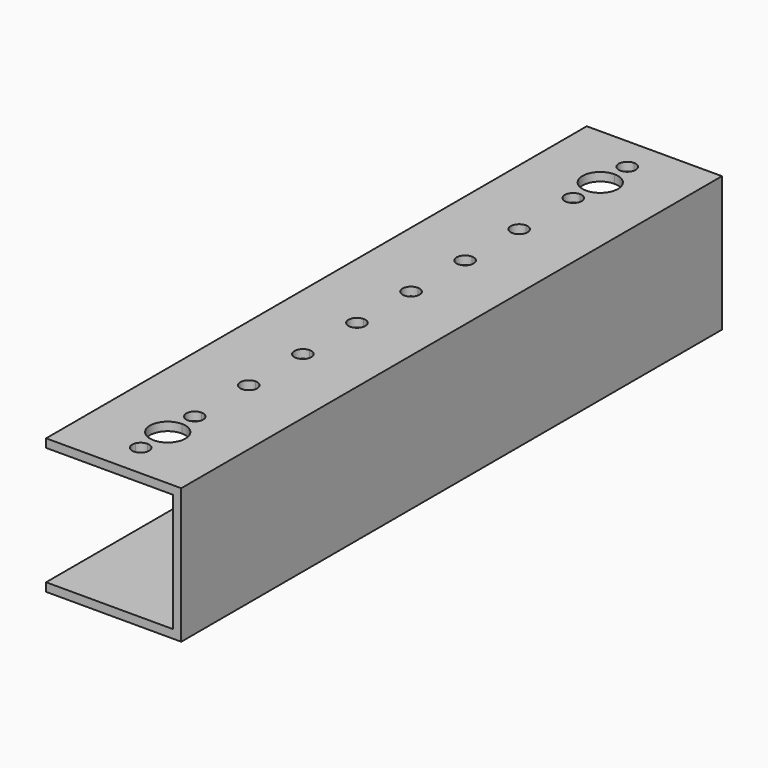
from build123d import *

# Parameters (mm, degrees)
F0_W     = 32
F0_H     = 32
F1_DEPTH = 160
F2_T     = -2
F4_DEPTH = 2


with BuildPart() as f1:
    # F0 (on Front) → F1 (new body)
    with BuildSketch(Plane.XZ):
        with Locations((16, 16)):
            Rectangle(F0_W, F0_H)
    extrude(amount=-F1_DEPTH)

    # F2
    f2_openings = [f1.faces().sort_by_distance(p)[0] for p in [
        (16, 0, 16),
        (0, 80, 16),
        (16, 160, 16),
    ]]
    offset(amount=F2_T, openings=f2_openings)

    # F3 (on face) → F4 (cut, through all)
    with BuildSketch(Plane.XY.offset(32)):
        with BuildLine():
            Line((16, 25.999), (16, 23.999))
            Line((16, 23.999), (17.847759065, 23.2336331353))
            ThreePointArc((17.847759065, 23.2336331353), (17.9615705608, 23.608819356), (18, 23.999))
            ThreePointArc((18, 23.999), (17.4142135624, 25.4132135624), (16, 25.999))
        make_face()
        with BuildLine():
            ThreePointArc((16, 25.999), (14.3370607754, 25.110140466), (14.152240935, 23.2336331353))
            Line((14.152240935, 23.2336331353), (16, 23.999))
            Line((16, 23.999), (16, 25.999))
        make_face()
        with BuildLine():
            ThreePointArc((14.152240935, 23.2336331353), (14.888859534, 22.3360607754), (16, 21.999))
            Line((16, 21.999), (16, 23.999))
            Line((16, 23.999), (14.152240935, 23.2336331353))
        make_face()
        with BuildLine():
            Line((16, 23.999), (16, 21.999))
            ThreePointArc((16, 21.999), (17.111140466, 22.3360607754), (17.847759065, 23.2336331353))
            Line((17.847759065, 23.2336331353), (16, 23.999))
        make_face()
        with BuildLine():
            Line((14.152240935, 8.7643668647), (16, 7.999))
            Line((16, 7.999), (16, 9.999))
            ThreePointArc((16, 9.999), (14.888859534, 9.6619392246), (14.152240935, 8.7643668647))
        make_face()
        with BuildLine():
            Line((16, 9.999), (16, 7.999))
            Line((16, 7.999), (17.847759065, 8.7643668647))
            ThreePointArc((17.847759065, 8.7643668647), (17.111140466, 9.6619392246), (16, 9.999))
        make_face()
        with BuildLine():
            Line((16, 7.999), (16, 5.999))
            ThreePointArc((16, 5.999), (17.4142135624, 6.5847864376), (18, 7.999))
            ThreePointArc((18, 7.999), (17.9615705608, 8.389180644), (17.847759065, 8.7643668647))
            Line((17.847759065, 8.7643668647), (16, 7.999))
        make_face()
        with BuildLine():
            ThreePointArc((14.152240935, 8.7643668647), (14.3370607754, 6.887859534), (16, 5.999))
            Line((16, 5.999), (16, 7.999))
            Line((16, 7.999), (14.152240935, 8.7643668647))
        make_face()
        with BuildLine():
            ThreePointArc((18, 39.999), (17.4142135624, 41.4132135624), (16, 41.999))
            Line((16, 41.999), (16, 39.999))
            Line((16, 39.999), (16, 37.999))
            ThreePointArc((16, 37.999), (17.4142135624, 38.5847864376), (18, 39.999))
        make_face()
        with BuildLine():
            Line((16, 39.999), (16, 41.999))
            ThreePointArc((16, 41.999), (14, 39.999), (16, 37.999))
            Line((16, 37.999), (16, 39.999))
        make_face()
        with BuildLine():
            Line((16, 55.999), (16, 57.999))
            ThreePointArc((16, 57.999), (14, 55.999), (16, 53.999))
            Line((16, 53.999), (16, 55.999))
        make_face()
        with BuildLine():
            ThreePointArc((18, 55.999), (17.4142135624, 57.4132135624), (16, 57.999))
            Line((16, 57.999), (16, 55.999))
            Line((16, 55.999), (16, 53.999))
            ThreePointArc((16, 53.999), (17.4142135624, 54.5847864376), (18, 55.999))
        make_face()
        with BuildLine():
            Line((16, 71.999), (16, 73.999))
            ThreePointArc((16, 73.999), (14, 71.999), (16, 69.999))
            Line((16, 69.999), (16, 71.999))
        make_face()
        with BuildLine():
            ThreePointArc((18, 71.999), (17.4142135624, 73.4132135624), (16, 73.999))
            Line((16, 73.999), (16, 71.999))
            Line((16, 71.999), (16, 69.999))
            ThreePointArc((16, 69.999), (17.4142135624, 70.5847864376), (18, 71.999))
        make_face()
        with BuildLine():
            ThreePointArc((16, 90.001), (14, 88.001), (16, 86.001))
            Line((16, 86.001), (16, 90.001))
        make_face()
        with BuildLine():
            Line((16, 90.001), (16, 86.001))
            ThreePointArc((16, 86.001), (17.4142135624, 86.5867864376), (18, 88.001))
            ThreePointArc((18, 88.001), (17.4142135624, 89.4152135624), (16, 90.001))
        make_face()
        with BuildLine():
            Line((16, 106.001), (16, 102.001))
            ThreePointArc((16, 102.001), (17.4142135624, 102.5867864376), (18, 104.001))
            ThreePointArc((18, 104.001), (17.4142135624, 105.4152135624), (16, 106.001))
        make_face()
        with BuildLine():
            ThreePointArc((16, 106.001), (14, 104.001), (16, 102.001))
            Line((16, 102.001), (16, 106.001))
        make_face()
        with BuildLine():
            ThreePointArc((16, 122.001), (14, 120.001), (16, 118.001))
            Line((16, 118.001), (16, 122.001))
        make_face()
        with BuildLine():
            Line((16, 122.001), (16, 118.001))
            ThreePointArc((16, 118.001), (17.4142135624, 118.5867864376), (18, 120.001))
            ThreePointArc((18, 120.001), (17.4142135624, 121.4152135624), (16, 122.001))
        make_face()
        with BuildLine():
            Line((16, 134.001), (16, 138.001))
            ThreePointArc((16, 138.001), (14, 136.001), (16, 134.001))
        make_face()
        with BuildLine():
            ThreePointArc((18, 136.001), (17.4142135624, 137.4152135624), (16, 138.001))
            Line((16, 138.001), (16, 134.001))
            ThreePointArc((16, 134.001), (17.4142135624, 134.5867864376), (18, 136.001))
        make_face()
        with BuildLine():
            Line((16, 150.001), (16, 154.001))
            ThreePointArc((16, 154.001), (14, 152.001), (16, 150.001))
        make_face()
        with BuildLine():
            ThreePointArc((18, 152.001), (17.4142135624, 153.4152135624), (16, 154.001))
            Line((16, 154.001), (16, 150.001))
            ThreePointArc((16, 150.001), (17.4142135624, 150.5867864376), (18, 152.001))
        make_face()
        with BuildLine():
            ThreePointArc((16, 20.19), (11.809, 15.999), (16, 11.808))
            Line((16, 11.808), (16, 20.19))
        make_face()
        with BuildLine():
            Line((16, 20.19), (16, 11.808))
            ThreePointArc((16, 11.808), (18.96348452, 13.03551548), (20.191, 15.999))
            ThreePointArc((20.191, 15.999), (18.96348452, 18.96248452), (16, 20.19))
        make_face()
        with BuildLine():
            Line((16, 139.81), (16, 148.192))
            ThreePointArc((16, 148.192), (11.809, 144.001), (16, 139.81))
        make_face()
        with BuildLine():
            ThreePointArc((20.191, 144.001), (18.96348452, 146.96448452), (16, 148.192))
            Line((16, 148.192), (16, 139.81))
            ThreePointArc((16, 139.81), (18.96348452, 141.03751548), (20.191, 144.001))
        make_face()
    extrude(amount=-F4_DEPTH, mode=Mode.SUBTRACT)


solid = f1.part
